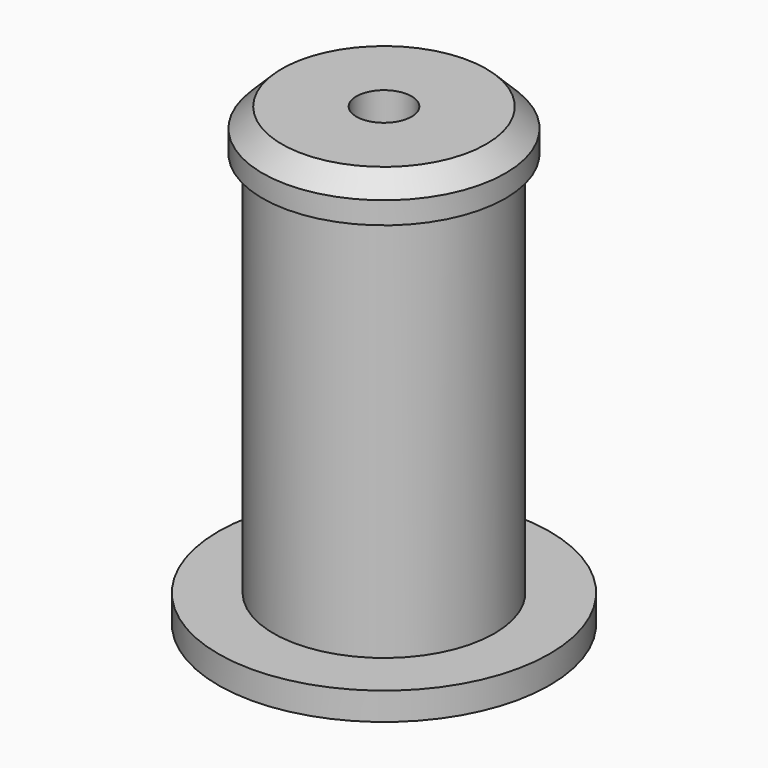
from build123d import *

# Parameters (mm, degrees)
SKETCH_R             = 4
PAD_DEPTH            = 14
SKETCH001_R          = 4.4
PAD001_DEPTH         = 1.5
CHAMFER_SIZE         = 0.7
SKETCH002_R          = 6
PAD002_DEPTH         = 1
POCKET_DEPTH         = 8
SKETCH004_R          = 1
POCKET001_DEPTH      = 1.001
POCKET001_DEPTH_BACK = -15.501


with BuildPart() as part:
    # Sketch → Pad (new body)
    with BuildSketch(Plane.XY):
        Circle(SKETCH_R)
    extrude(amount=PAD_DEPTH)

    # Sketch001 (on Face3 of Pad) → Pad001 (join)
    with BuildSketch(Plane.XY.offset(14)):
        Circle(SKETCH001_R)
    extrude(amount=PAD001_DEPTH)

    # Chamfer
    chamfer_edges = [part.edges().sort_by_distance(p)[0] for p in [
        (-4.4, 0, 15.5),
    ]]
    chamfer(chamfer_edges, length=CHAMFER_SIZE)

    # Sketch002 → Pad002 (join)
    with BuildSketch(Plane.XY):
        Circle(SKETCH002_R)
    extrude(amount=-PAD002_DEPTH)

    # Sketch003 → Pocket (cut)
    with BuildSketch(Plane.XY.offset(-1)):
        with BuildLine():
            ThreePointArc((-1.204159, 1.2), (0, -1.7), (1.204159, 1.2))
            Line((-1.204159, 1.2), (1.204159, 1.2))
        make_face()
    extrude(amount=POCKET_DEPTH, mode=Mode.SUBTRACT)

    # Sketch004 → Pocket001 (cut, two sides)
    with BuildSketch(Plane.XY) as pocket001_sk:
        Circle(SKETCH004_R)
    extrude(amount=-POCKET001_DEPTH, mode=Mode.SUBTRACT)
    extrude(pocket001_sk.sketch, amount=-POCKET001_DEPTH_BACK, mode=Mode.SUBTRACT)


solid = part.part
